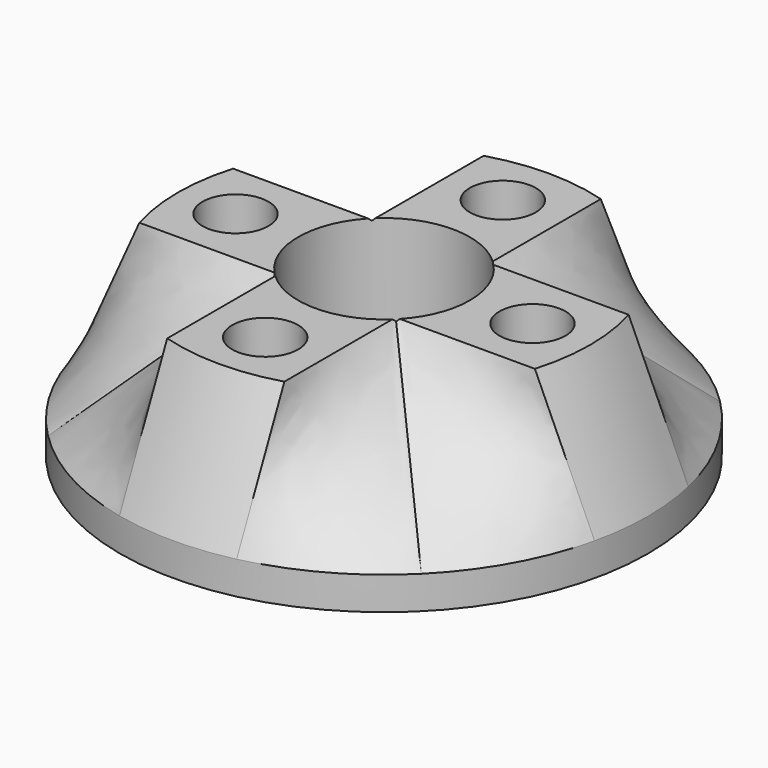
from build123d import *

# Parameters (mm, degrees)
F2_R      = 8
F3_DEPTH  = 1
F9_R      = 1
F9_R_2    = 2.6
F10_DEPTH = 5.001


with BuildPart() as f3:
    # F2 (on offset) → F3 (new body)
    with BuildSketch(Plane.XY.offset(-5)):
        Circle(F2_R)
    extrude(amount=F3_DEPTH)

    # F4 (on face) → F5 section 0
    with BuildSketch(Plane.XY.offset(-4)):
        with BuildLine():
            Line((0, 0), (5.6568542495, 5.6568542495))
            ThreePointArc((5.6568542495, 5.6568542495), (3.8674315589, 7.0030688371), (1.775, 7.8006009384))
            ThreePointArc((1.775, 7.8006009384), (0, 8), (-1.775, 7.8006009384))
            ThreePointArc((-1.775, 7.8006009384), (-3.8674315589, 7.0030688371), (-5.6568542495, 5.6568542495))
            Line((-5.6568542495, 5.6568542495), (0, 0))
        make_face()
    # F0 (on Top) → F5 section 1
    with BuildSketch(Plane.XY):
        with BuildLine():
            Line((1.775, 1.775), (1.775, 5.9926517503))
            ThreePointArc((1.775, 5.9926517503), (0, 6.25), (-1.775, 5.9926517503))
            Line((-1.775, 5.9926517503), (-1.775, 1.775))
            Line((-1.775, 1.775), (0, 0))
            Line((0, 0), (1.775, 1.775))
        make_face()
    loft()

    # F4 (on face) → F6 section 0
    with BuildSketch(Plane.XY.offset(-4)):
        with BuildLine():
            Line((-5.6568542495, -5.6568542495), (0, 0))
            Line((0, 0), (-5.6568542495, 5.6568542495))
            ThreePointArc((-5.6568542495, 5.6568542495), (-7.0030688371, 3.8674315589), (-7.8006009384, 1.775))
            ThreePointArc((-7.8006009384, 1.775), (-8, 0), (-7.8006009384, -1.775))
            ThreePointArc((-7.8006009384, -1.775), (-7.0030688371, -3.8674315589), (-5.6568542495, -5.6568542495))
        make_face()
    # F0 (on Top) → F6 section 1
    with BuildSketch(Plane.XY):
        with BuildLine():
            Line((-1.775, -1.775), (0, 0))
            Line((0, 0), (-1.775, 1.775))
            Line((-1.775, 1.775), (-5.9926517503, 1.775))
            ThreePointArc((-5.9926517503, 1.775), (-6.25, 0), (-5.9926517503, -1.775))
            Line((-5.9926517503, -1.775), (-1.775, -1.775))
        make_face()
    loft()

    # F4 (on face) → F7 section 0
    with BuildSketch(Plane.XY.offset(-4)):
        with BuildLine():
            Line((5.6568542495, -5.6568542495), (0, 0))
            Line((0, 0), (-5.6568542495, -5.6568542495))
            ThreePointArc((-5.6568542495, -5.6568542495), (-3.8674315589, -7.0030688371), (-1.775, -7.8006009384))
            ThreePointArc((-1.775, -7.8006009384), (0, -8), (1.775, -7.8006009384))
            ThreePointArc((1.775, -7.8006009384), (3.8674315589, -7.0030688371), (5.6568542495, -5.6568542495))
        make_face()
    # F0 (on Top) → F7 section 1
    with BuildSketch(Plane.XY):
        with BuildLine():
            Line((1.775, -1.775), (0, 0))
            Line((0, 0), (-1.775, -1.775))
            Line((-1.775, -1.775), (-1.775, -5.9926517503))
            ThreePointArc((-1.775, -5.9926517503), (0, -6.25), (1.775, -5.9926517503))
            Line((1.775, -5.9926517503), (1.775, -1.775))
        make_face()
    loft()

    # F4 (on face) → F8 section 0
    with BuildSketch(Plane.XY.offset(-4)):
        with BuildLine():
            ThreePointArc((7.8006009384, 1.775), (7.0030688371, 3.8674315589), (5.6568542495, 5.6568542495))
            Line((5.6568542495, 5.6568542495), (0, 0))
            Line((0, 0), (5.6568542495, -5.6568542495))
            ThreePointArc((5.6568542495, -5.6568542495), (7.0030688371, -3.8674315589), (7.8006009384, -1.775))
            ThreePointArc((7.8006009384, -1.775), (8, 0), (7.8006009384, 1.775))
        make_face()
    # F0 (on Top) → F8 section 1
    with BuildSketch(Plane.XY):
        with BuildLine():
            Line((5.9926517503, 1.775), (1.775, 1.775))
            Line((1.775, 1.775), (0, 0))
            Line((0, 0), (1.775, -1.775))
            Line((1.775, -1.775), (5.9926517503, -1.775))
            ThreePointArc((5.9926517503, -1.775), (6.25, 0), (5.9926517503, 1.775))
        make_face()
    loft()

    # F9 (on Top) → F10 (cut, through all)
    with BuildSketch(Plane.XY):
        with Locations((0, 4.5)):
            Circle(F9_R)
        with Locations((4.5, 0)):
            Circle(F9_R)
        with Locations((0, -4.5)):
            Circle(F9_R)
        with Locations((-4.5, 0)):
            Circle(F9_R)
        Circle(F9_R_2)
    extrude(amount=-F10_DEPTH, mode=Mode.SUBTRACT)


solid = f3.part
